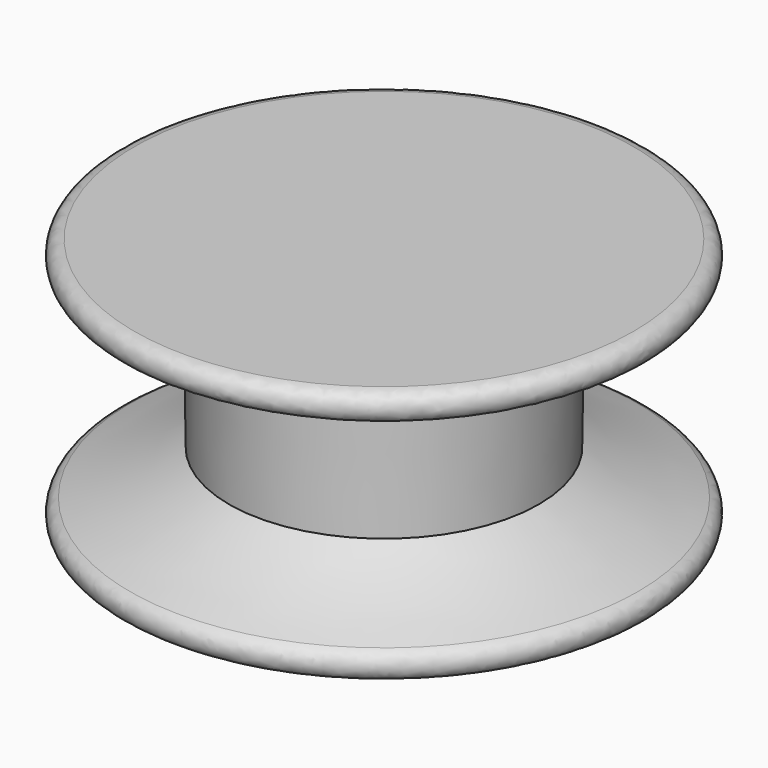
from build123d import *

# Parameters (mm, degrees)
F2_R = 1
F3_R = 1


with BuildPart() as f1:
    # F0 (on Front) → F1 (revolve)
    with BuildSketch(Plane.XZ):
        with BuildLine():
            Line((0, 9), (0, 0))
            Line((0, 0), (0, -9))
            Line((0, -9), (30, -9))
            ThreePointArc((30, -9), (20.1316432931, -7.7078421856), (10.9286567668, -3.9184919894))
            Line((10.9286567668, -3.9184919894), (11.0093392432, 3.9646429941))
            ThreePointArc((11.0093392432, 3.9646429941), (20.1765584422, 7.7197805473), (30, 9))
            Line((30, 9), (0, 9))
        make_face()
    revolve(axis=Axis((0, 0, 4.5), (0, 0, 1)))

    # F2
    f2_edges = [f1.edges().sort_by_distance(p)[0] for p in [
        (-30, 0, 9),
    ]]
    fillet(f2_edges, radius=F2_R)

    # F3
    f3_edges = [f1.edges().sort_by_distance(p)[0] for p in [
        (-30, 0, -9),
    ]]
    fillet(f3_edges, radius=F3_R)


solid = f1.part
